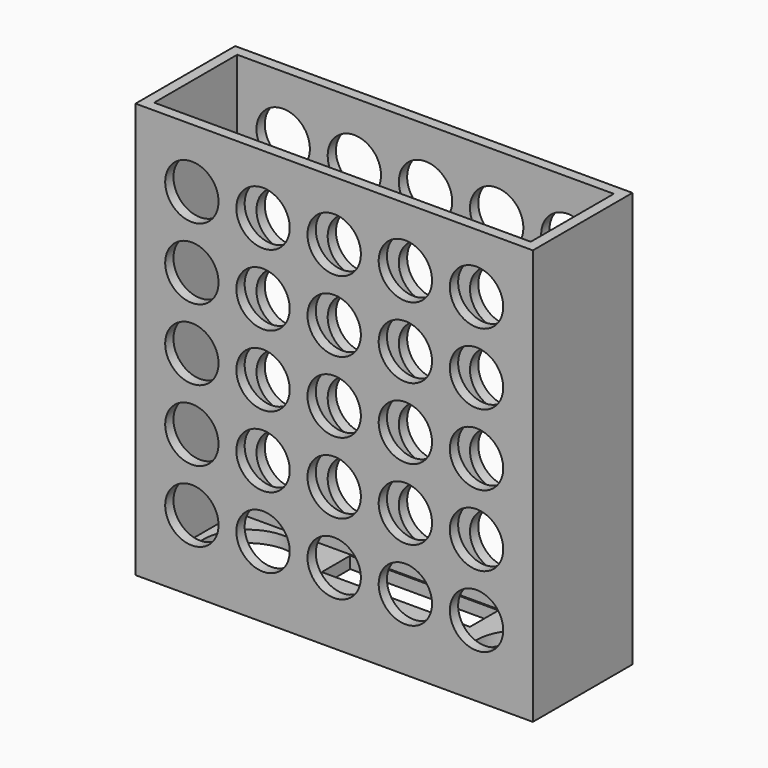
from build123d import *

# Parameters (mm, degrees)
F0_W     = 67
F0_H     = 21
F1_DEPTH = 70
F2_W     = 63.5
F2_H     = 17.5
F3_DEPTH = 68
F4_R     = 7.5
F4_W     = 25
F4_H     = 6
F5_DEPTH = 2
F6_R     = 4.5
F7_DEPTH = 21.001


with BuildPart() as f1:
    # F0 (on Top) → F1 (new body)
    with BuildSketch(Plane.XY):
        Rectangle(F0_W, F0_H)
    extrude(amount=F1_DEPTH)

    # F2 (on face) → F3 (cut)
    with BuildSketch(Plane.XY.offset(70)):
        Rectangle(F2_W, F2_H)
    extrude(amount=-F3_DEPTH, mode=Mode.SUBTRACT)

    # F4 (on face) → F5 (cut, through all)
    with BuildSketch(Plane(origin=(0, 0, 0), x_dir=(1, 0, 0), z_dir=(0, 0, -1))):
        with Locations((-23, 0)):
            Circle(F4_R)
        with Locations((23, 0)):
            Circle(F4_R)
        with Locations((0, 5.5)):
            Rectangle(F4_W, F4_H)
        with Locations((0, -5.5)):
            Rectangle(F4_W, F4_H)
    extrude(amount=-F5_DEPTH, mode=Mode.SUBTRACT)

    # F6 (on face) → F7 (cut, through all)
    with BuildSketch(Plane(origin=(0, 10.5, 0), x_dir=(-1, 0, 0), z_dir=(0, 1, 0))):
        with Locations((24, 60)):
            Circle(F6_R)
        with Locations((24, 48)):
            Circle(F6_R)
        with Locations((24, 36)):
            Circle(F6_R)
        with Locations((24, 24)):
            Circle(F6_R)
        with Locations((24, 12)):
            Circle(F6_R)
        with Locations((12, 60)):
            Circle(F6_R)
        with Locations((12, 48)):
            Circle(F6_R)
        with Locations((12, 36)):
            Circle(F6_R)
        with Locations((12, 24)):
            Circle(F6_R)
        with Locations((12, 12)):
            Circle(F6_R)
        with Locations((0, 60)):
            Circle(F6_R)
        with Locations((0, 48)):
            Circle(F6_R)
        with Locations((0, 36)):
            Circle(F6_R)
        with Locations((0, 24)):
            Circle(F6_R)
        with Locations((0, 12)):
            Circle(F6_R)
        with Locations((-12, 60)):
            Circle(F6_R)
        with Locations((-12, 48)):
            Circle(F6_R)
        with Locations((-12, 36)):
            Circle(F6_R)
        with Locations((-12, 24)):
            Circle(F6_R)
        with Locations((-12, 12)):
            Circle(F6_R)
        with Locations((-24, 60)):
            Circle(F6_R)
        with Locations((-24, 48)):
            Circle(F6_R)
        with Locations((-24, 36)):
            Circle(F6_R)
        with Locations((-24, 24)):
            Circle(F6_R)
        with Locations((-24, 12)):
            Circle(F6_R)
    extrude(amount=-F7_DEPTH, mode=Mode.SUBTRACT)


solid = f1.part
